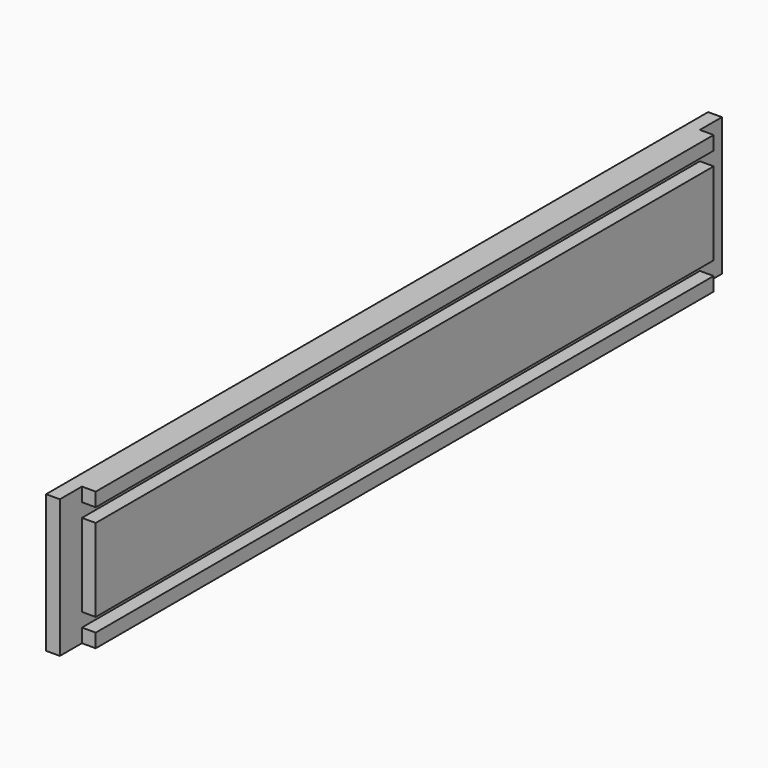
from build123d import *

# Parameters (mm, degrees)
F0_W     = 381
F0_H     = 63.5
F1_DEPTH = 12.7
F2_W     = 6.35
F2_H     = 12.7
F3_DEPTH = 63.501
F4_W     = 355.6
F4_H     = 6.35
F5_DEPTH = 6.35


with BuildPart() as f1:
    # F0 (on Right) → F1 (new body)
    with BuildSketch(Plane.YZ):
        Rectangle(F0_W, F0_H)
    extrude(amount=F1_DEPTH)

    # F2 (on face) → F3 (cut, through all)
    with BuildSketch(Plane.XY.offset(31.75)):
        with Locations((9.525, 184.15)):
            Rectangle(F2_W, F2_H)
        with Locations((9.525, -184.15)):
            Rectangle(F2_W, F2_H)
    extrude(amount=-F3_DEPTH, mode=Mode.SUBTRACT)

    # F4 (on face) → F5 (cut)
    with BuildSketch(Plane.YZ.offset(12.7)):
        with Locations((0, 22.225)):
            Rectangle(F4_W, F4_H)
        with Locations((0, -22.225)):
            Rectangle(F4_W, F4_H)
    extrude(amount=-F5_DEPTH, mode=Mode.SUBTRACT)


solid = f1.part
